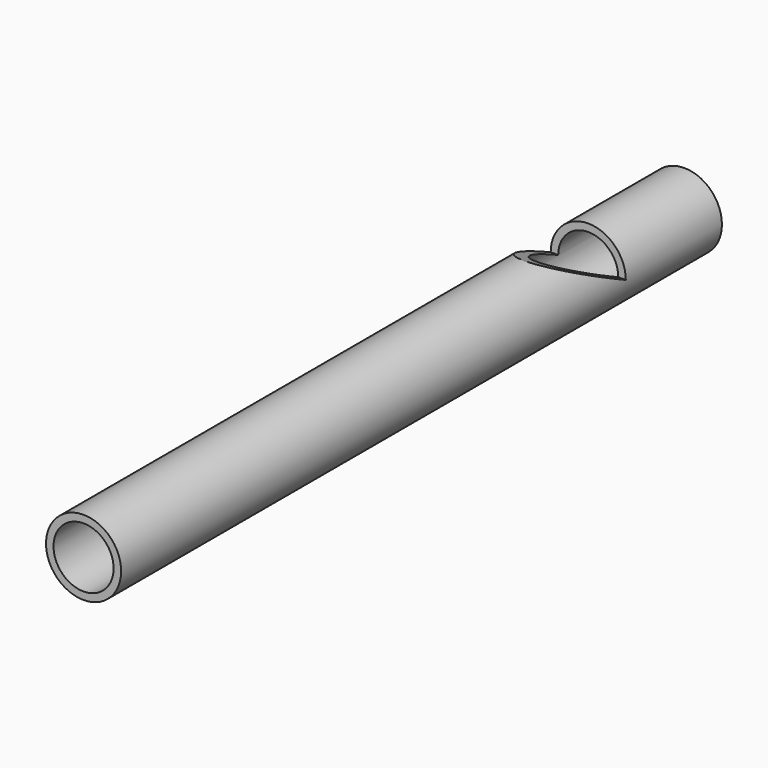
from build123d import *

# Parameters (mm, degrees)
F0_R          = 3.175
F0_R_2        = 2.54
F1_DEPTH      = 63.5
F3_DEPTH      = 3.176
F3_DEPTH_BACK = 50.8


with BuildPart() as f1:
    # F0 (on Front) → F1 (new body)
    with BuildSketch(Plane.XZ):
        Circle(F0_R)
        Circle(F0_R_2, mode=Mode.SUBTRACT)
    extrude(amount=F1_DEPTH)

    # F2 (on Right) → F3 (cut, two sides)
    with BuildSketch(Plane.YZ) as f3_sk:
        Polygon((-17.78, 3.553264), (-10.16, 0), (-10.16, 3.553264), align=None)
    extrude(amount=F3_DEPTH, mode=Mode.SUBTRACT)
    extrude(f3_sk.sketch, amount=-F3_DEPTH_BACK, mode=Mode.SUBTRACT)


solid = f1.part
